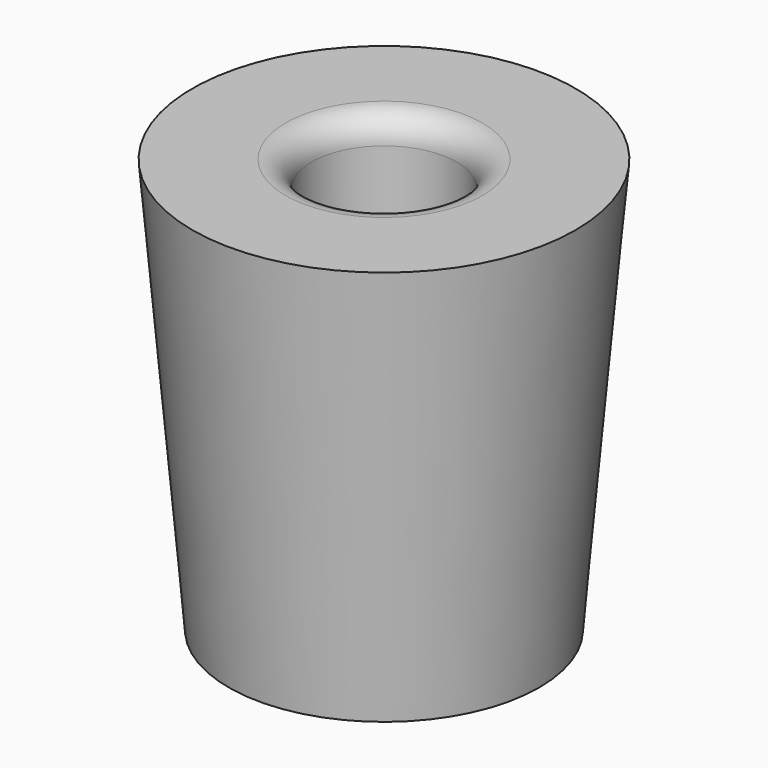
from build123d import *

# Parameters (mm, degrees)
F0_R     = 6
F0_R_2   = 2.8
F1_DEPTH = 16
F1_TAPER = -5
F2_DEPTH = 16.0010001
F3_R     = 1


with BuildPart() as f1:
    # F0 (on Top) → F1 (new body)
    with BuildSketch(Plane.XY):
        Circle(F0_R)
        Circle(F0_R_2, mode=Mode.SUBTRACT)
    extrude(amount=F1_DEPTH, taper=F1_TAPER)

    # F0 (on Top) → F2 (cut, through all)
    with BuildSketch(Plane.XY):
        Circle(F0_R_2)
    extrude(amount=F2_DEPTH, mode=Mode.SUBTRACT)

    # F3
    f3_edges = [f1.edges().sort_by_distance(p)[0] for p in [
        (-2.8, 0, 16),
        (-2.8, 0, 0),
    ]]
    fillet(f3_edges, radius=F3_R)


solid = f1.part
